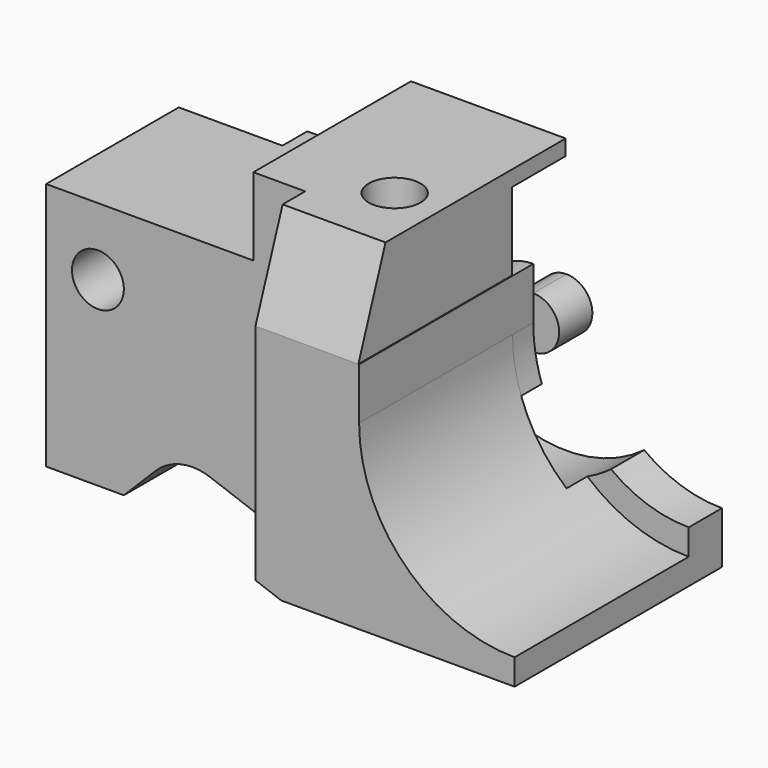
from build123d import *

# Parameters (mm, degrees)
F0_W      = 50
F0_H      = 63
F1_DEPTH  = 100
F3_DEPTH  = 100
F5_DEPTH  = 42
F6_R      = 25
F7_DEPTH  = 50.001
F9_DEPTH  = 13
F11_DEPTH = 50.001
F13_DEPTH = 5
F15_DEPTH = 8
F16_W     = 40
F16_H     = 15
F17_DEPTH = 48.9090892972
F19_DEPTH = 6
F20_R     = 5
F21_DEPTH = 44.001
F23_DEPTH = 50.001
F24_W     = 50
F24_H     = 12
F25_DEPTH = 63.001
F26_R     = 5
F27_DEPTH = 63.001


with BuildPart() as f1:
    # F0 (on Right) → F1 (new body)
    with BuildSketch(Plane.YZ):
        Rectangle(F0_W, F0_H)
    extrude(amount=F1_DEPTH)

    # F2 (on face) → F3 (cut, through all)
    with BuildSketch(Plane.YZ.offset(100)):
        Polygon((-25, 31.5), (-25, 13.5), (-18.4485357832, 31.5), align=None)
    extrude(amount=-F3_DEPTH, mode=Mode.SUBTRACT)

    # F4 (on face) → F5 (cut)
    with BuildSketch(Plane.XZ.offset(25)):
        with BuildLine():
            Line((70, 13.5), (70, 3.5))
            ThreePointArc((70, 3.5), (78.7867965644, -17.7132034356), (100, -26.5))
            Line((100, -26.5), (100, 13.5))
            Line((100, 13.5), (70, 13.5))
        make_face()
        with BuildLine():
            Line((100, 13.5), (100, -26.5))
            ThreePointArc((100, -26.5), (130, 3.5), (100, 33.5))
            Line((100, 33.5), (70, 33.5))
            Line((70, 33.5), (70, 13.5))
            Line((70, 13.5), (100, 13.5))
        make_face()
    extrude(amount=-F5_DEPTH, mode=Mode.SUBTRACT)

    # F6 (on face) → F7 (cut, through all)
    with BuildSketch(Plane.XZ.offset(25)):
        with Locations((100, 3.5)):
            Circle(F6_R)
    extrude(amount=-F7_DEPTH, mode=Mode.SUBTRACT)

    # F8 (on face) → F9 (cut)
    with BuildSketch(Plane(origin=(0, 25, 0), x_dir=(-1, 0, 0), z_dir=(0, 1, 0))):
        with BuildLine():
            ThreePointArc((-85, -16.5), (-58.8196601125, -18.860679775), (-45, 3.5))
            ThreePointArc((-45, 3.5), (-58.8196601125, 25.860679775), (-85, 23.5))
            ThreePointArc((-85, 23.5), (-75, 3.5), (-85, -16.5))
        make_face()
        with BuildLine():
            ThreePointArc((-85, -16.5), (-75, 3.5), (-85, 23.5))
            ThreePointArc((-85, 23.5), (-95, 3.5), (-85, -16.5))
        make_face()
    extrude(amount=-F9_DEPTH, mode=Mode.SUBTRACT)

    # F10 (on face) → F11 (cut, through all)
    with BuildSketch(Plane.XZ.offset(25)):
        Polygon((100, 3.5), (100, 33.6852799021), (69.8542892933, 33.6852799021), (69.8542892933, 13.5), (70, 13.5), (70, 3.5), align=None)
    extrude(amount=-F11_DEPTH, mode=Mode.SUBTRACT)

    # F12 (on face) → F13 (join)
    with BuildSketch(Plane(origin=(0, 12, 0), x_dir=(-1, 0, 0), z_dir=(0, 1, 0))):
        with BuildLine():
            ThreePointArc((-71.6666666667, -6.3601329718), (-63.5450277563, -4.1376261583), (-60, 3.5))
            ThreePointArc((-60, 3.5), (-62.9289321881, 10.5710678119), (-70, 13.5))
            Line((-70, 13.5), (-70, 3.5))
            ThreePointArc((-70, 3.5), (-70.4196010845, -1.5), (-71.6666666667, -6.3601329718))
        make_face()
    extrude(amount=F13_DEPTH)

    # F14 (on face) → F15 (join, through all)
    with BuildSketch(Plane(origin=(0, 17, 0), x_dir=(-1, 0, 0), z_dir=(0, 1, 0))):
        with BuildLine():
            Line((-70, 3.5), (-70, 8.5))
            ThreePointArc((-70, 8.5), (-74.9956502687, 3.7085147299), (-70.4166666667, -1.482608643))
            ThreePointArc((-70.4166666667, -1.482608643), (-70.1043481422, 1), (-70, 3.5))
        make_face()
        with BuildLine():
            ThreePointArc((-70.4166666667, -1.482608643), (-66.6149839981, -0.179900361), (-65, 3.5))
            ThreePointArc((-65, 3.5), (-66.4644660941, 7.0355339059), (-70, 8.5))
            Line((-70, 8.5), (-70, 3.5))
            ThreePointArc((-70, 3.5), (-70.1043481422, 1), (-70.4166666667, -1.482608643))
        make_face()
    extrude(amount=F15_DEPTH)

    # F16 (on face) → F17 (cut, through all)
    with BuildSketch(Plane(origin=(0, 25, 0), x_dir=(-1, 0, 0), z_dir=(0, 1, 0))):
        with Locations((-20, 24)):
            Rectangle(F16_W, F16_H)
    extrude(amount=-F17_DEPTH, mode=Mode.SUBTRACT)

    # F18 (on face) → F19 (cut)
    with BuildSketch(Plane(origin=(0, 25, 0), x_dir=(-1, 0, 0), z_dir=(0, 1, 0))):
        with BuildLine():
            Line((0, 16.5), (0, -16.5))
            ThreePointArc((0, -16.5), (20, 3.5), (0, 23.5))
            Line((0, 23.5), (-20, 23.5))
            Line((-20, 23.5), (-20, 16.5))
            Line((-20, 16.5), (0, 16.5))
        make_face()
        with BuildLine():
            Line((-20, 16.5), (-20, 3.5))
            ThreePointArc((-20, 3.5), (-14.1421356237, -10.6421356237), (0, -16.5))
            Line((0, -16.5), (0, 16.5))
            Line((0, 16.5), (-20, 16.5))
        make_face()
    extrude(amount=-F19_DEPTH, mode=Mode.SUBTRACT)

    # F20 (on face) → F21 (cut, through all)
    with BuildSketch(Plane(origin=(0, 19, 0), x_dir=(-1, 0, 0), z_dir=(0, 1, 0))):
        with Locations((-10, 3.5)):
            Circle(F20_R)
    extrude(amount=-F21_DEPTH, mode=Mode.SUBTRACT)

    # F22 (on face) → F23 (cut, through all)
    with BuildSketch(Plane(origin=(0, 25, 0), x_dir=(-1, 0, 0), z_dir=(0, 1, 0))):
        with BuildLine():
            Line((-31.6603490669, -23.0050617822), (-55, -31.5))
            Line((-55, -31.5), (-15, -31.5))
            Line((-15, -31.5), (-21.1690798218, -25.3309201782))
            ThreePointArc((-21.1690798218, -25.3309201782), (-26.0757514943, -22.6390279189), (-31.6603490669, -23.0050617822))
        make_face()
    extrude(amount=-F23_DEPTH, mode=Mode.SUBTRACT)

    # F24 (on face) → F25 (cut, through all)
    with BuildSketch(Plane.XY.offset(31.5)):
        with Locations((25, -19)):
            Rectangle(F24_W, F24_H)
    extrude(amount=-F25_DEPTH, mode=Mode.SUBTRACT)

    # F26 (on face) → F27 (cut, through all)
    with BuildSketch(Plane.XY.offset(31.5)):
        with Locations((60.8542892933, -5)):
            Circle(F26_R)
    extrude(amount=-F27_DEPTH, mode=Mode.SUBTRACT)


solid = f1.part
